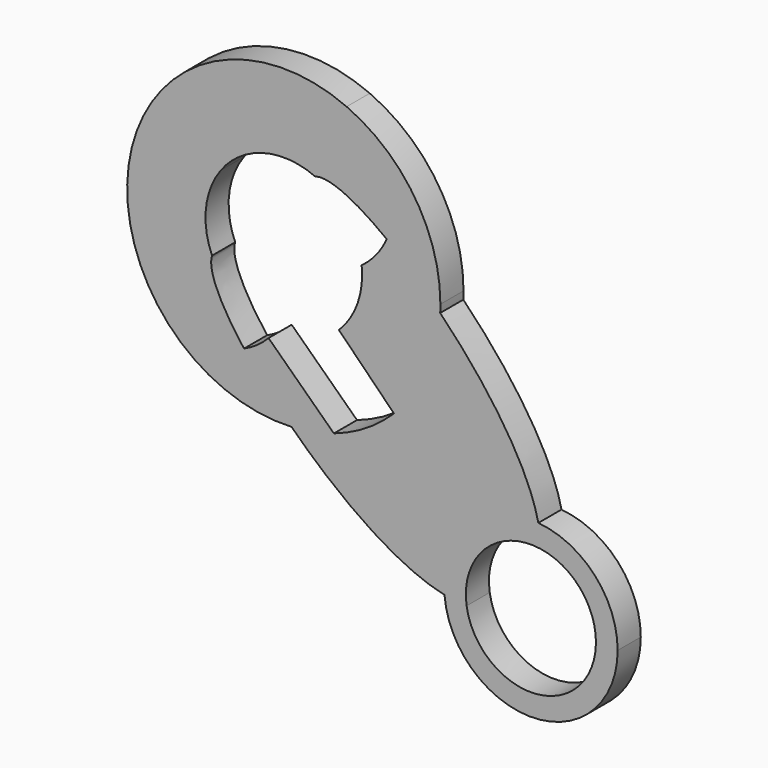
from build123d import *

# Parameters (mm, degrees)
F1_DEPTH = 2


with BuildPart() as f1:
    # F0 (on Front) → F1 (new body)
    with BuildSketch(Plane.XZ):
        with BuildLine():
            ThreePointArc((0.6844000922, 4.4476506735), (3.4153916624, 2.9300340941), (4.5, 0))
            ThreePointArc((4.5, 0), (0.3431996279, -4.4868935819), (-4.4476506735, -0.6844000922))
            add(Edge.make_bspline(
                [(-4.4476506735, -0.6844000922), (-4.9346746385, -0.6825419939), (-5.4462900919, -0.6273633621), (-5.9779185511, -0.5142857143)],
                knots=[0.9786176191, 0.9786176191, 0.9786176191, 0.9786176191, 1, 1, 1, 1], degree=3))
            ThreePointArc((-5.9779185511, -0.5142857143), (0.2573797711, -5.9944770959), (6, 0))
            ThreePointArc((6, 0), (4.4207303857, 4.0567404227), (0.5142857143, 5.9779185511))
            add(Edge.make_bspline(
                [(0.5142857143, 5.9779185511), (0.6273633621, 5.4462900919), (0.6825419939, 4.9346746385), (0.6844000922, 4.4476506735)],
                knots=[0.8230651547, 0.8230651547, 0.8230651547, 0.8230651547, 0.8444475356, 0.8444475356, 0.8444475356, 0.8444475356], degree=3))
        make_face()
        with BuildLine():
            ThreePointArc((-4.4476506735, -0.6844000922), (-3.1819805153, 3.1819805153), (0.6844000922, 4.4476506735))
            add(Edge.make_bspline(
                [(0.5142857143, 5.9779185511), (0.6273633621, 5.4462900919), (0.6825419939, 4.9346746385), (0.6844000922, 4.4476506735)],
                knots=[0.8230651547, 0.8230651547, 0.8230651547, 0.8230651547, 0.8444475356, 0.8444475356, 0.8444475356, 0.8444475356], degree=3))
            ThreePointArc((0.5142857143, 5.9779185511), (-2.0986157278, 5.6210152132), (-4.3060976098, 4.1782201205))
            ThreePointArc((-4.3060976098, 4.1782201205), (-5.6520040562, 2.0136658482), (-5.9779185511, -0.5142857143))
            add(Edge.make_bspline(
                [(-4.4476506735, -0.6844000922), (-4.9346746385, -0.6825419939), (-5.4462900919, -0.6273633621), (-5.9779185511, -0.5142857143)],
                knots=[0.9786176191, 0.9786176191, 0.9786176191, 0.9786176191, 1, 1, 1, 1], degree=3))
        make_face()
        with BuildLine():
            ThreePointArc((-4.3060976098, 4.1782201205), (-2.0986157278, 5.6210152132), (0.5142857143, 5.9779185511))
            add(Edge.make_bspline(
                [(-6.2738136049, 16.5537690574), (-3.1066768068, 13.3299091312), (-0.1859762748, 9.2701625042), (0.5142857143, 5.9779185511)],
                knots=[0.6906493425, 0.6906493425, 0.6906493425, 0.6906493425, 0.8230651547, 0.8230651547, 0.8230651547, 0.8230651547], degree=3))
            ThreePointArc((-6.2738136049, 16.5537690574), (-7.2019746382, 12.674875181), (-9.4710973104, 9.3948777866))
            Line((-9.4710973104, 9.3948777866), (-4.3060976098, 4.1782201205))
        make_face()
        with BuildLine():
            Line((-13.6272287459, 6.8295048215), (-5.9779185511, -0.5142857143))
            ThreePointArc((-5.9779185511, -0.5142857143), (-5.6520040562, 2.0136658482), (-4.3060976098, 4.1782201205))
            Line((-4.3060976098, 4.1782201205), (-9.4710973104, 9.3948777866))
            ThreePointArc((-9.4710973104, 9.3948777866), (-11.4026798966, 7.8748756561), (-13.6272287459, 6.8295048215))
        make_face()
        with BuildLine():
            add(Edge.make_bspline(
                [(-5.9779185511, -0.5142857143), (-9.2701625042, 0.1859762748), (-13.3299091312, 3.1066768068), (-16.5537690574, 6.2738136049)],
                knots=[0, 0, 0, 0, 0.1324158122, 0.1324158122, 0.1324158122, 0.1324158122], degree=3))
            Line((-5.9779185511, -0.5142857143), (-13.6272287459, 6.8295048215))
            ThreePointArc((-13.6272287459, 6.8295048215), (-15.0713046573, 6.4505729841), (-16.5537690574, 6.2738136049))
        make_face()
        with BuildLine():
            ThreePointArc((-9.4710973104, 9.3948777866), (-7.2019746382, 12.674875181), (-6.2738136049, 16.5537690574))
            add(Edge.make_bspline(
                [(-9.9715142143, 19.8467211367), (-8.7793859803, 18.9392190064), (-7.5078918356, 17.8099495155), (-6.2738136049, 16.5537690574)],
                knots=[0.63905338, 0.63905338, 0.63905338, 0.63905338, 0.6906493425, 0.6906493425, 0.6906493425, 0.6906493425], degree=3))
            ThreePointArc((-9.9715142143, 19.8467211367), (-10.7000746105, 18.6549888152), (-11.7092015977, 17.6892306154))
            ThreePointArc((-11.7092015977, 17.6892306154), (-11.6844240059, 17.3910089394), (-11.6761563944, 17.0918739469))
            ThreePointArc((-11.6761563944, 17.0918739469), (-12.093575061, 15.00692674), (-13.2814856287, 13.2433758668))
            Line((-13.2814856287, 13.2433758668), (-9.4710973104, 9.3948777866))
        make_face()
        with BuildLine():
            add(Edge.make_bspline(
                [(-9.9715142143, 19.8467211367), (-8.7793859803, 18.9392190064), (-7.5078918356, 17.8099495155), (-6.2738136049, 16.5537690574)],
                knots=[0.63905338, 0.63905338, 0.63905338, 0.63905338, 0.6906493425, 0.6906493425, 0.6906493425, 0.6906493425], degree=3))
            ThreePointArc((-6.2738136049, 16.5537690574), (-6.2637830489, 16.8227384065), (-6.2604388418, 17.0918739469))
            ThreePointArc((-6.2604388418, 17.0918739469), (-8.0250308603, 23.0174408294), (-12.7438535579, 27.0122925436))
            ThreePointArc((-12.7438535579, 27.0122925436), (-10.3844422581, 25.0148666852), (-9.5021462697, 22.0520832759))
            ThreePointArc((-9.5021462697, 22.0520832759), (-9.6207877891, 20.9247048531), (-9.9715142143, 19.8467211367))
        make_face()
        with BuildLine():
            ThreePointArc((-27.012292638, 12.7438537735), (-22.790321807, 7.8805939912), (-16.5537690574, 6.2738136049))
            add(Edge.make_bspline(
                [(-16.5537690574, 6.2738136049), (-17.8099495155, 7.5078918356), (-18.9392190064, 8.7793859803), (-19.8467211367, 9.9715142143)],
                knots=[0.1324158122, 0.1324158122, 0.1324158122, 0.1324158122, 0.1840117746, 0.1840117746, 0.1840117746, 0.1840117746], degree=3))
            ThreePointArc((-19.8467211367, 9.9715142143), (-24.0062486894, 9.8669991294), (-27.012292638, 12.7438537735))
        make_face()
        with BuildLine():
            add(Edge.make_bspline(
                [(-16.5537690574, 6.2738136049), (-17.8099495155, 7.5078918356), (-18.9392190064, 8.7793859803), (-19.8467211367, 9.9715142143)],
                knots=[0.1324158122, 0.1324158122, 0.1324158122, 0.1324158122, 0.1840117746, 0.1840117746, 0.1840117746, 0.1840117746], degree=3))
            ThreePointArc((-16.5537690574, 6.2738136049), (-15.0713046573, 6.4505729841), (-13.6272287459, 6.8295048215))
            Line((-13.6272287459, 6.8295048215), (-18.1453688204, 11.1671867137))
            ThreePointArc((-18.1453688204, 11.1671867137), (-18.9381182382, 10.4869250557), (-19.8467211367, 9.9715142143))
        make_face()
        with BuildLine():
            add(Edge.make_bspline(
                [(-14.9178638223, 22.0520832759), (-13.955468202, 22.3706014122), (-12.0886480797, 21.4583795456), (-9.9715142143, 19.8467211367)],
                knots=[0.5474226676, 0.5474226676, 0.5474226676, 0.5474226676, 0.63905338, 0.63905338, 0.63905338, 0.63905338], degree=3))
            ThreePointArc((-9.9715142143, 19.8467211367), (-9.6207877891, 20.9247048531), (-9.5021462697, 22.0520832759))
            ThreePointArc((-9.5021462697, 22.0520832759), (-10.3844422581, 25.0148666852), (-12.7438535579, 27.0122925436))
            ThreePointArc((-12.7438535579, 27.0122925436), (-18.1265259854, 26.4149359815), (-20.3005361715, 21.4547266074))
            ThreePointArc((-20.3005361715, 21.4547266074), (-17.6892306154, 22.4745462962), (-14.9178638223, 22.0520832759))
        make_face()
        with BuildLine():
            ThreePointArc((-27.012292638, 12.7438537735), (-24.0062486894, 9.8669991294), (-19.8467211367, 9.9715142143))
            add(Edge.make_bspline(
                [(-19.8467211367, 9.9715142143), (-21.4583795456, 12.0886480797), (-22.3706014122, 13.955468202), (-22.0520832759, 14.9178638223)],
                knots=[0.1840117746, 0.1840117746, 0.1840117746, 0.1840117746, 0.275642487, 0.275642487, 0.275642487, 0.275642487], degree=3))
            ThreePointArc((-22.0520832759, 14.9178638223), (-22.4745462962, 17.6892306154), (-21.4547266074, 20.3005361715))
            ThreePointArc((-21.4547266074, 20.3005361715), (-26.4149359118, 18.1265260803), (-27.012292638, 12.7438537735))
        make_face()
        with BuildLine():
            ThreePointArc((-12.7438535579, 27.0122925436), (-24.7508550765, 24.7508552429), (-27.012292638, 12.7438537735))
            ThreePointArc((-27.012292638, 12.7438537735), (-26.4149359118, 18.1265260803), (-21.4547266074, 20.3005361715))
            ThreePointArc((-21.4547266074, 20.3005361715), (-20.9213645533, 20.9213645533), (-20.3005361715, 21.4547266074))
            ThreePointArc((-20.3005361715, 21.4547266074), (-18.1265259854, 26.4149359815), (-12.7438535579, 27.0122925436))
        make_face()
    extrude(amount=F1_DEPTH)


solid = f1.part
